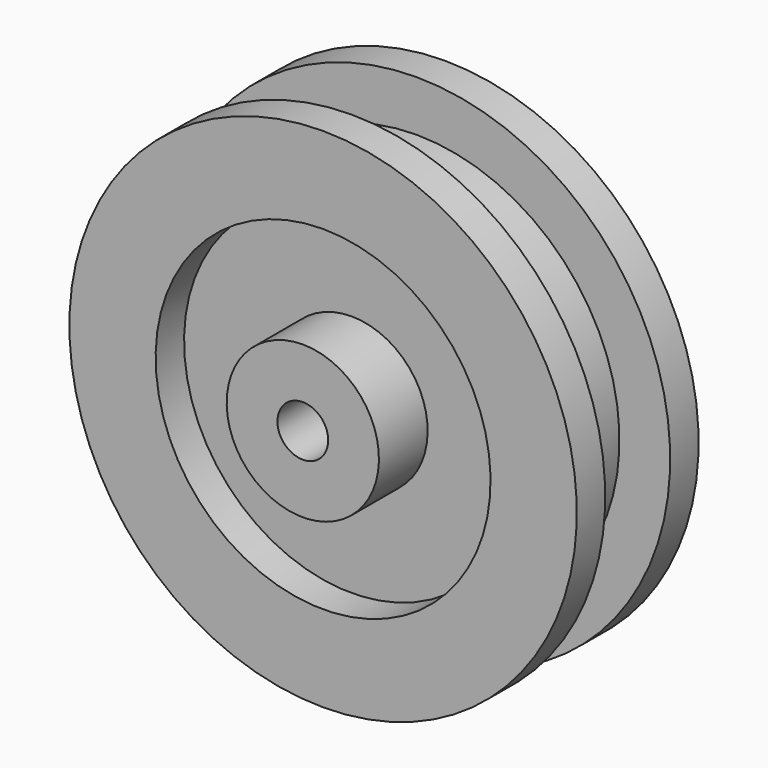
from build123d import *


with BuildPart() as f1:
    # F0 (on Right) → F1 (revolve)
    with BuildSketch(Plane.YZ):
        Polygon((20, 100), (0, 100), (-20, 100), (-20, 125), (-37.5, 125), (-37.5, 82.5), (-20, 82.5), (-20, 37.5), (-50, 37.5), (-50, 12.5), (0, 12.5), (50, 12.5), (50, 37.5), (20, 37.5), (20, 82.5), (37.5, 82.5), (37.5, 125), (20, 125), align=None)
    revolve(axis=Axis((0, -3.476026, 0), (0, 1, 0)))


solid = f1.part
